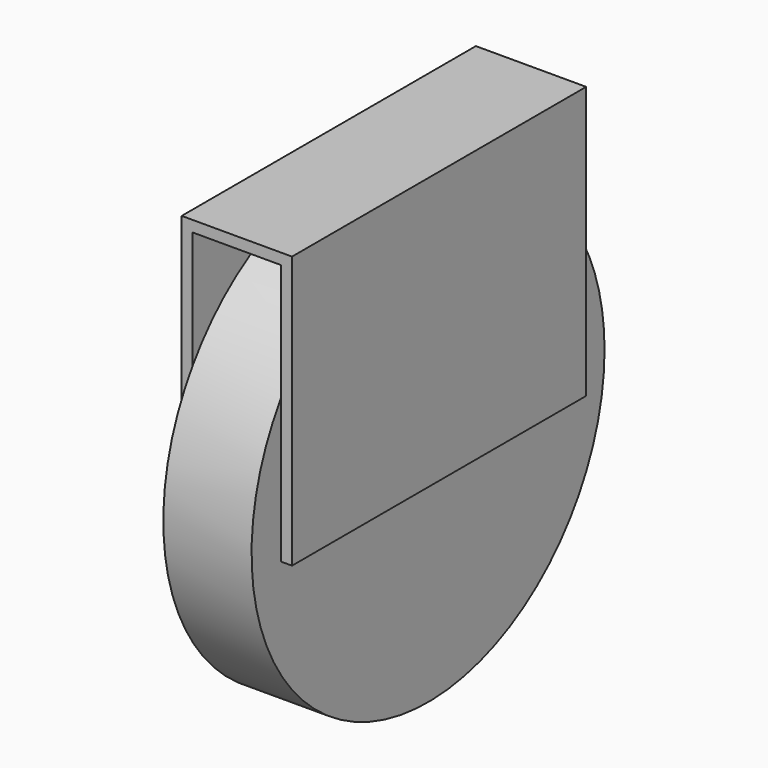
from build123d import *

# Parameters (mm, degrees)
F1_DEPTH = 50
F2_R     = 60
F3_DEPTH = 12


with BuildPart() as f1:
    # F0 (on Front) → F1 (new body, symmetric)
    with BuildSketch(Plane.XZ):
        Polygon((-12, 65), (0, 65), (12, 65), (12, -6), (15, -6), (15, 68), (0, 68), (-15, 68), (-15, -6), (-12, -6), align=None)
    extrude(amount=F1_DEPTH, both=True)

    # F2 (on Right) → F3 (join, symmetric)
    with BuildSketch(Plane.YZ):
        Circle(F2_R)
    extrude(amount=F3_DEPTH, both=True)


solid = f1.part
